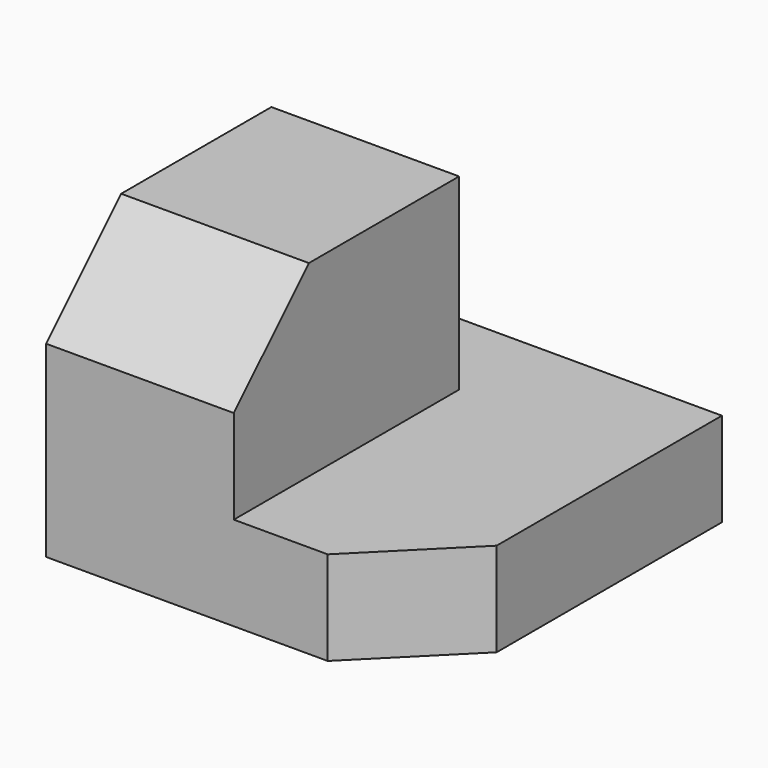
from build123d import *

# Parameters (mm, degrees)
F0_W     = 20
F0_H     = 30
F1_DEPTH = 30
F2_DEPTH = 10
F3_SIZE  = 10


with BuildPart() as f1:
    # F0 (on Top) → F1 (new body)
    with BuildSketch(Plane.XY):
        with Locations((10, 15)):
            Rectangle(F0_W, F0_H)
    extrude(amount=F1_DEPTH)

    # F0 (on Top) → F2 (join)
    with BuildSketch(Plane.XY):
        Polygon((20, 30), (20, 0), (30, 0), (40, 10), (40, 40), (0, 40), (0, 30), align=None)
    extrude(amount=F2_DEPTH)

    # F3
    f3_edges = [f1.edges().sort_by_distance(p)[0] for p in [
        (10, 0, 30),
    ]]
    chamfer(f3_edges, length=F3_SIZE)


solid = f1.part
